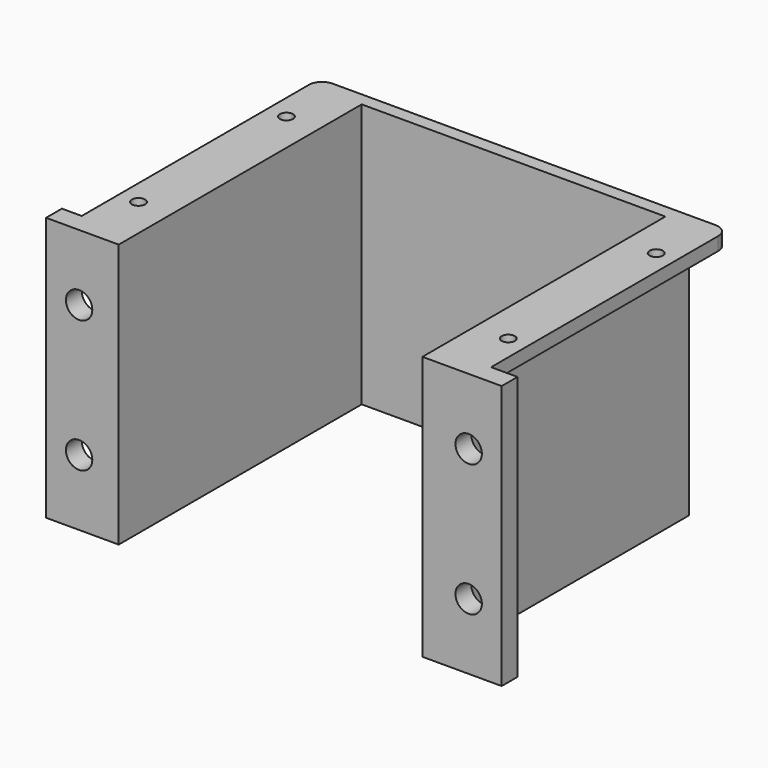
from build123d import *

# Parameters (mm, degrees)
SKETCH012_W      = 10
SKETCH012_H      = 40
SKETCH012_R      = 2
EXTRUDE010_DEPTH = 3
EXTRUDE008_DEPTH = 40
SKETCH011_W      = 6
SKETCH011_H      = 48
SKETCH011_R      = 1
EXTRUDE009_DEPTH = 2
FILLET002_R      = 2


with BuildPart() as extrude010:
    # Sketch012 → Extrude010 (new body)
    with BuildSketch(Plane.XZ):
        with Locations((-9, -18)):
            Rectangle(SKETCH012_W, SKETCH012_H)
        with Locations((-9, -8)):
            Circle(SKETCH012_R, mode=Mode.SUBTRACT)
        with Locations((-9, -28)):
            Circle(SKETCH012_R, mode=Mode.SUBTRACT)
        with Locations((50, -18)):
            Rectangle(SKETCH012_W, SKETCH012_H)
        with Locations((50, -8)):
            Circle(SKETCH012_R, mode=Mode.SUBTRACT)
        with Locations((50, -28)):
            Circle(SKETCH012_R, mode=Mode.SUBTRACT)
    extrude(amount=EXTRUDE010_DEPTH)


with BuildPart() as extrude008:
    # Sketch007 → Extrude008 (new body)
    with BuildSketch(Plane.XY.offset(2)):
        Polygon((43, -3), (43, 43), (-3, 43), (-3, -3), (-5, -3), (-5, 45), (45, 45), (45, -3), align=None)
    extrude(amount=-EXTRUDE008_DEPTH)


with BuildPart() as fusion006:
    # Sketch011 → Extrude009 (new body)
    with BuildSketch(Plane.XY.offset(2)):
        with Locations((48, 21)):
            Rectangle(SKETCH011_W, SKETCH011_H)
        with Locations((48, 35)):
            Circle(SKETCH011_R, mode=Mode.SUBTRACT)
        with Locations((48, 7)):
            Circle(SKETCH011_R, mode=Mode.SUBTRACT)
        with Locations((-8, 21)):
            Rectangle(SKETCH011_W, SKETCH011_H)
        with Locations((-8, 7)):
            Circle(SKETCH011_R, mode=Mode.SUBTRACT)
        with Locations((-8, 35)):
            Circle(SKETCH011_R, mode=Mode.SUBTRACT)
    extrude(amount=-EXTRUDE009_DEPTH)

    # Fillet002
    fillet002_edges = [fusion006.edges().sort_by_distance(p)[0] for p in [
        (-11, 45, 1),
        (51, 45, 1),
    ]]
    fillet(fillet002_edges, radius=FILLET002_R)

    # Fusion005: union Extrude008
    add(extrude008.part)

    # Fusion006: union Extrude010
    add(extrude010.part)


solid = fusion006.part
